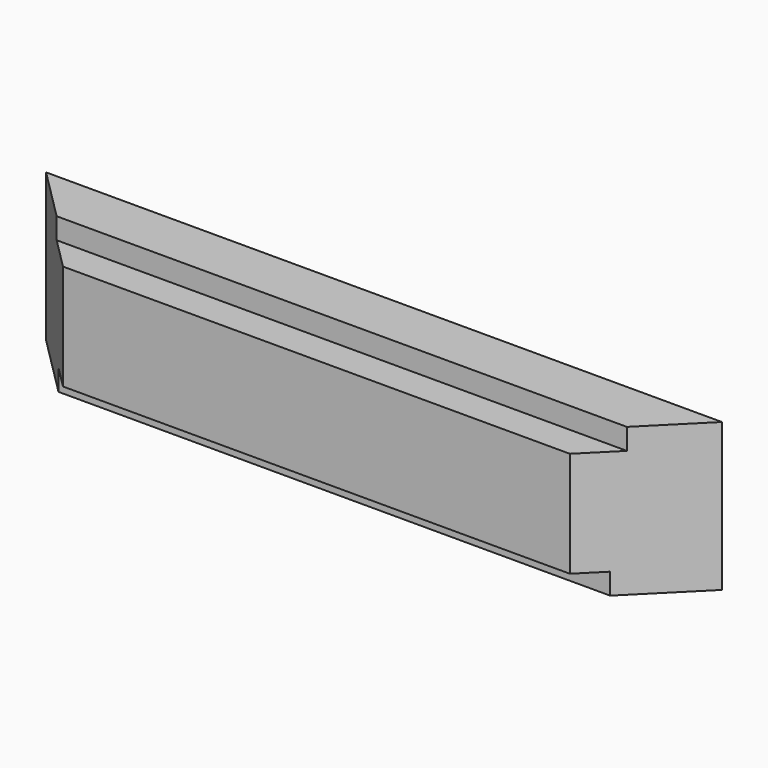
from build123d import *

# Parameters (mm, degrees)
F0_W      = 304.8
F0_H      = 50.8
F1_DEPTH  = 88.9
F2_W      = 304.8
F2_H      = 19.05
F3_DEPTH  = 12.7
F5_DEPTH  = 88.9
F7_DEPTH  = 12.7
F9_DEPTH  = 88.9
F11_DEPTH = 12.7
F13_DEPTH = 12.7


with BuildPart() as f1:
    # F0 (on Top) → F1 (new body)
    with BuildSketch(Plane.XY):
        Rectangle(F0_W, F0_H)
    extrude(amount=F1_DEPTH)

    # F2 (on face) → F3 (cut)
    with BuildSketch(Plane.XY.offset(88.9)):
        with Locations((0, -15.875)):
            Rectangle(F2_W, F2_H)
    extrude(amount=-F3_DEPTH, mode=Mode.SUBTRACT)

    # F4 (on Top) → F5 (join)
    with BuildSketch(Plane.XY):
        Polygon((152.4, 25.4), (152.4, -25.4), (203.2, 25.4), align=None)
    extrude(amount=F5_DEPTH)

    # F6 (on face) → F7 (cut)
    with BuildSketch(Plane.XY.offset(88.9)):
        Polygon((171.45, -6.35), (152.4, -6.35), (152.4, -25.4), align=None)
    extrude(amount=-F7_DEPTH, mode=Mode.SUBTRACT)

    # F8 (on Top) → F9 (join)
    with BuildSketch(Plane.XY):
        Polygon((-203.2, 25.4), (-152.4, -25.4), (-152.4, 25.4), align=None)
    extrude(amount=F9_DEPTH)

    # F10 (on face) → F11 (cut)
    with BuildSketch(Plane.XY.offset(88.9)):
        Polygon((-171.45, -6.35), (-152.4, -25.4), (-152.4, -6.35), align=None)
    extrude(amount=-F11_DEPTH, mode=Mode.SUBTRACT)

    # F12 (on face) → F13 (cut)
    with BuildSketch(Plane(origin=(0, 0, 0), x_dir=(1, 0, 0), z_dir=(0, 0, -1))):
        Polygon((-165.870384, 11.929616), (165.870384, 11.929616), (152.4, 25.4), (-152.4, 25.4), align=None)
    extrude(amount=-F13_DEPTH, mode=Mode.SUBTRACT)


solid = f1.part
